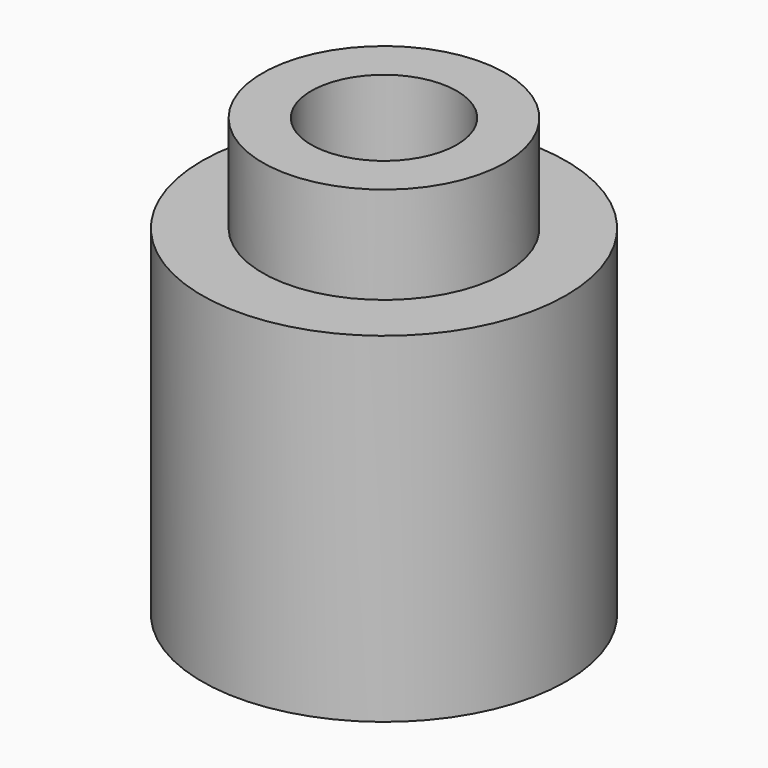
from build123d import *

# Parameters (mm, degrees)
SKETCH_R     = 7.5
PAD_DEPTH    = 14
SKETCH001_R  = 5
PAD001_DEPTH = 4
SKETCH002_R  = 3
POCKET_DEPTH = 18.001


with BuildPart() as part:
    # Sketch → Pad (new body)
    with BuildSketch(Plane.XY):
        Circle(SKETCH_R)
    extrude(amount=PAD_DEPTH)

    # Sketch001 (on Face3 of Pad) → Pad001 (join)
    with BuildSketch(Plane.XY.offset(14)):
        Circle(SKETCH001_R)
    extrude(amount=PAD001_DEPTH)

    # Sketch002 (on Face5 of Pad001) → Pocket (cut, through all)
    with BuildSketch(Plane.XY.offset(18)):
        Circle(SKETCH002_R)
    extrude(amount=-POCKET_DEPTH, mode=Mode.SUBTRACT)


solid = part.part
